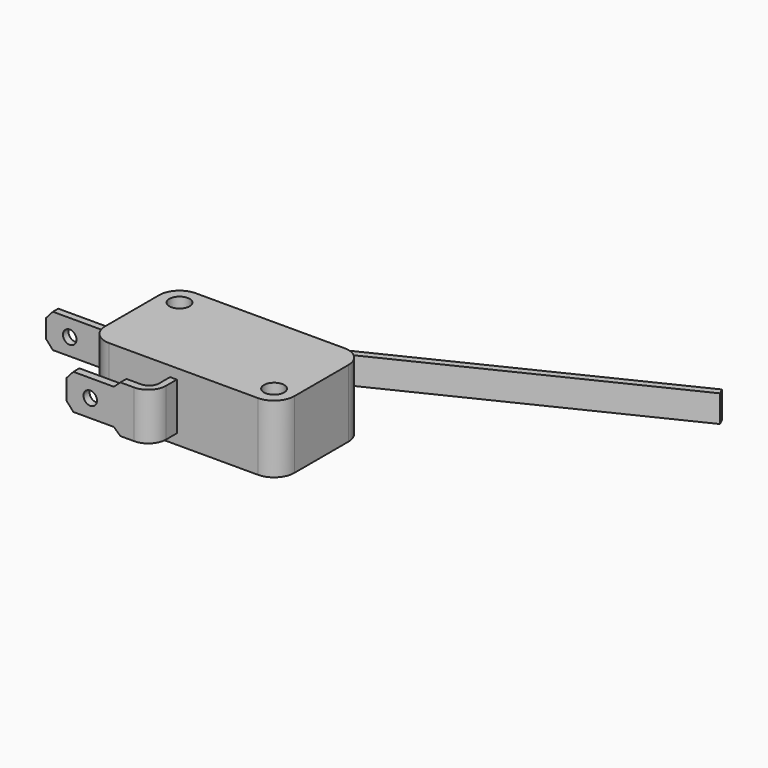
from build123d import *

# Parameters (mm, degrees)
F0_R          = 1.5
F1_DEPTH      = 5
F1_DEPTH_BACK = 5
F0_W          = 2
F0_H          = 2
F2_DEPTH      = 2
F2_DEPTH_BACK = 2
F3_DEPTH      = 2
F3_DEPTH_BACK = 2
F4_DEPTH      = 3.5
F4_DEPTH_BACK = 3.5
F0_W_2        = 11
F0_H_2        = 1
F5_DEPTH      = 3.5
F5_DEPTH_BACK = 3.5
F6_R          = 1
F7_DEPTH      = 3.08035
F8_R          = 1
F9_DEPTH      = 25


with BuildPart() as f1:
    # F0 (on Top) → F1 (new body, two sides)
    with BuildSketch(Plane.XY) as f1_sk:
        with BuildLine():
            Line((24.676793, -8.935527), (11.176793, -8.935527))
            ThreePointArc((11.176793, -8.935527), (9.055472, -9.814207), (8.176793, -11.935527))
            Line((8.176793, -11.935527), (8.176793, -18.119132))
            Line((8.176793, -18.119132), (8.176793, -19.119132))
            Line((8.176793, -19.119132), (8.176793, -21.935527))
            ThreePointArc((8.176793, -21.935527), (9.055472, -24.056847), (11.176793, -24.935527))
            Line((11.176793, -24.935527), (15.126595, -24.935527))
            Line((15.126595, -24.935527), (20.176793, -24.935527))
            Line((20.176793, -24.935527), (21.176793, -24.935527))
            Line((21.176793, -24.935527), (33.176793, -24.935527))
            ThreePointArc((33.176793, -24.935527), (35.298113, -24.056847), (36.176793, -21.935527))
            Line((36.176793, -21.935527), (36.176793, -11.935527))
            ThreePointArc((36.176793, -11.935527), (35.298113, -9.814207), (33.176793, -8.935527))
            Line((33.176793, -8.935527), (31.176793, -8.935527))
            Line((31.176793, -8.935527), (29.176793, -8.935527))
            Line((29.176793, -8.935527), (25.676793, -8.935527))
            Line((25.676793, -8.935527), (24.676793, -8.935527))
        make_face()
        with Locations((33.176793, -21.935527)):
            Circle(F0_R, mode=Mode.SUBTRACT)
        with Locations((11.176793, -11.935527)):
            Circle(F0_R, mode=Mode.SUBTRACT)
    extrude(amount=F1_DEPTH)
    extrude(f1_sk.sketch, amount=-F1_DEPTH_BACK)


with BuildPart() as f2:
    # F0 (on Top) → F2 (new body, two sides)
    with BuildSketch(Plane.XY) as f2_sk:
        with Locations((30.176793, -7.935527)):
            Rectangle(F0_W, F0_H)
        with BuildLine():
            ThreePointArc((29.738829, -6.036534), (29.328865, -6.405415), (29.176793, -6.935527))
            Line((29.176793, -6.935527), (31.176793, -6.935527))
            ThreePointArc((31.176793, -6.935527), (30.706904, -6.087599), (29.738829, -6.036534))
        make_face()
    extrude(amount=F2_DEPTH)
    extrude(f2_sk.sketch, amount=-F2_DEPTH_BACK)


with BuildPart() as f3:
    # F0 (on Top) → F3 (new body, two sides)
    with BuildSketch(Plane.XY) as f3_sk:
        with BuildLine():
            Line((24.676793, -7.935527), (24.676793, -8.935527))
            Line((24.676793, -8.935527), (25.676793, -8.935527))
            Line((25.676793, -8.935527), (25.676793, -8.107648))
            ThreePointArc((25.676793, -8.107648), (25.699221, -8.029463), (25.759686, -7.975057))
            Line((25.759686, -7.975057), (29.738829, -6.036534))
            Line((29.738829, -6.036534), (70.554594, 13.847723))
            Line((70.554594, 13.847723), (70.116631, 14.746716))
            Line((70.116631, 14.746716), (25.166988, -7.151447))
            ThreePointArc((25.166988, -7.151447), (24.809426, -7.473176), (24.676793, -7.935527))
        make_face()
    extrude(amount=F3_DEPTH)
    extrude(f3_sk.sketch, amount=-F3_DEPTH_BACK)


with BuildPart() as f4:
    # F0 (on Top) → F4 (new body, two sides)
    with BuildSketch(Plane.XY) as f4_sk:
        with BuildLine():
            Line((21.176793, -24.935527), (20.176793, -24.935527))
            Line((20.176793, -24.935527), (20.176793, -26.935527))
            ThreePointArc((20.176793, -26.935527), (19.737453, -27.996187), (18.676793, -28.435527))
            Line((18.676793, -28.435527), (15.126595, -28.435527))
            Line((15.126595, -28.435527), (8.560788, -28.435527))
            Line((8.560788, -28.435527), (8.560788, -29.551531))
            Line((8.560788, -29.551531), (18.560788, -29.551531))
            ThreePointArc((18.560788, -29.551531), (20.410583, -28.785321), (21.176793, -26.935527))
            Line((21.176793, -26.935527), (21.176793, -24.935527))
        make_face()
    extrude(amount=F4_DEPTH)
    extrude(f4_sk.sketch, amount=-F4_DEPTH_BACK)

    # F6 (on face) → F7 (cut)
    with BuildSketch(Plane.XZ.offset(29.551531)):
        Polygon((8.560788, -3.5), (16.515846, -3.5), (15.560788, -2.618034), (9.560788, -2.618034), (8.560788, -1.5), align=None)
        Polygon((15.560788, 2.618034), (16.515846, 3.5), (8.560788, 3.5), (8.560788, 1.5), (9.560788, 2.618034), align=None)
        with Locations((12.060788, 0)):
            Circle(F6_R)
    extrude(amount=-F7_DEPTH, mode=Mode.SUBTRACT)


with BuildPart() as f5:
    # F0 (on Top) → F5 (new body, two sides)
    with BuildSketch(Plane.XY) as f5_sk:
        with Locations((2.676793, -18.619132)):
            Rectangle(F0_W_2, F0_H_2)
    extrude(amount=F5_DEPTH)
    extrude(f5_sk.sketch, amount=-F5_DEPTH_BACK)

    # F8 (on face) → F9 (cut)
    with BuildSketch(Plane.XZ.offset(29.551531)):
        Polygon((5.926793, 2.5), (6.676793, 3.5), (-2.823207, 3.5), (-2.823207, 1.374733), (-1.823207, 2.5), align=None)
        with Locations((0.676793, 0)):
            Circle(F8_R)
        Polygon((-2.823207, -3.5), (6.676793, -3.5), (5.926793, -2.5), (-1.823207, -2.5), (-2.823207, -1.375267), align=None)
    extrude(amount=-F9_DEPTH, mode=Mode.SUBTRACT)


solid = Compound([f1.part, f2.part, f3.part, f4.part, f5.part])
